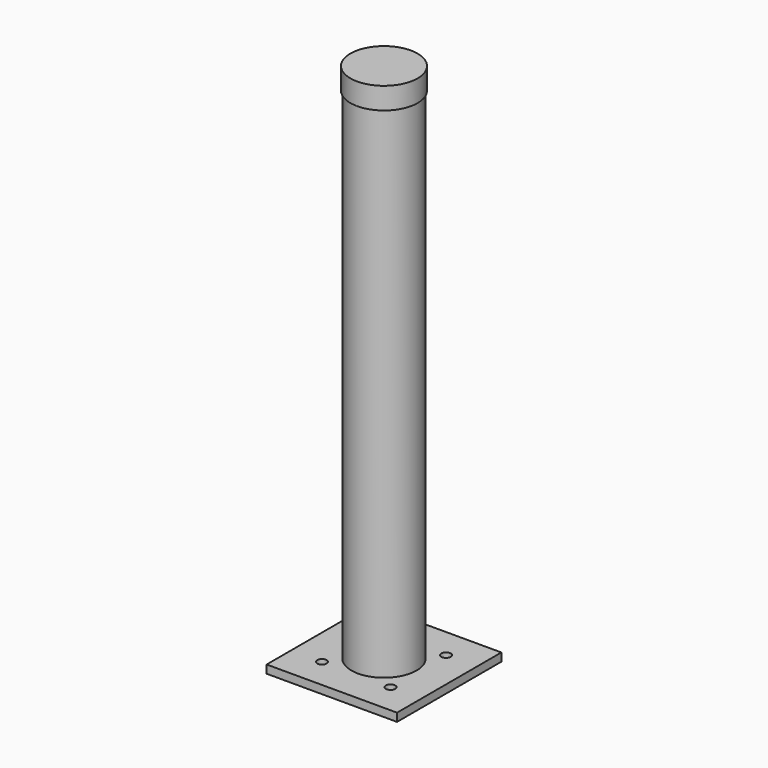
from build123d import *

# Parameters (mm, degrees)
F0_R     = 38.1
F0_R_2   = 34.925
F1_DEPTH = 609.6
F2_W     = 152.4
F2_H     = 152.4
F2_R     = 5.489771
F3_DEPTH = 9.525
F4_R     = 39.285427
F5_DEPTH = 25.4


with BuildPart() as f1:
    # F0 (on Top) → F1 (new body)
    with BuildSketch(Plane.XY):
        Circle(F0_R)
        Circle(F0_R_2, mode=Mode.SUBTRACT)
    extrude(amount=F1_DEPTH)

    # F2 (on Top) → F3 (join)
    with BuildSketch(Plane.XY):
        Rectangle(F2_W, F2_H)
        with Locations((-40.11862, -40.534951)):
            Circle(F2_R, mode=Mode.SUBTRACT)
        with Locations((40.11862, -40.534951)):
            Circle(F2_R, mode=Mode.SUBTRACT)
        with Locations((-40.11862, 40.534951)):
            Circle(F2_R, mode=Mode.SUBTRACT)
        with Locations((40.11862, 40.534951)):
            Circle(F2_R, mode=Mode.SUBTRACT)
    extrude(amount=-F3_DEPTH)

    # F4 (on face) → F5 (join)
    with BuildSketch(Plane.XY.offset(609.6)):
        Circle(F4_R)
    extrude(amount=-F5_DEPTH)


solid = f1.part
